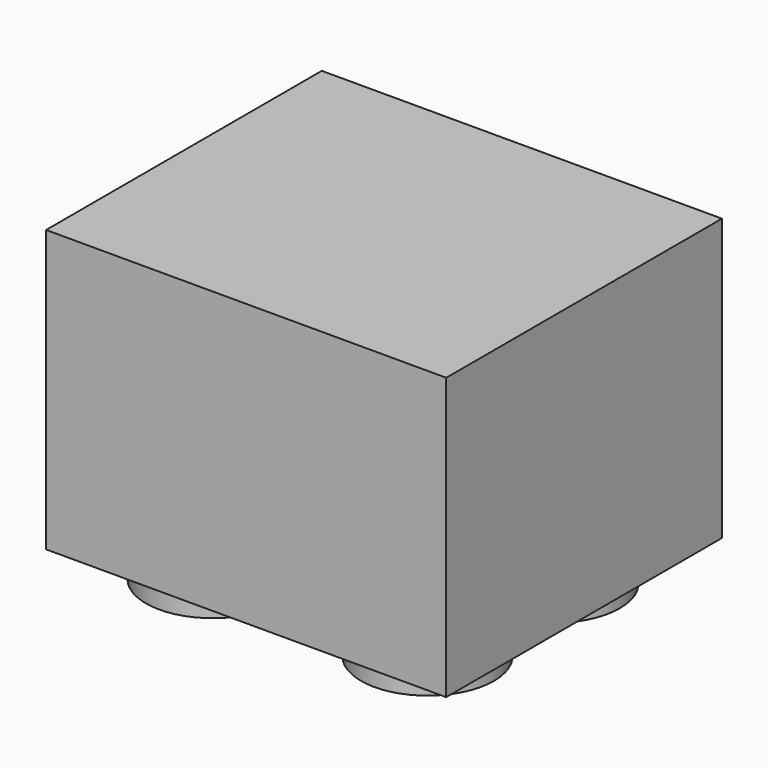
from build123d import *

# Parameters (mm, degrees)
F0_W     = 14.746196
F0_H     = 10.363549
F1_DEPTH = 12.7
F2_R     = 2.45
F3_DEPTH = 1.2


with BuildPart() as f1:
    # F0 (on Front) → F1 (new body)
    with BuildSketch(Plane.XZ):
        with Locations((-7.373098, 5.181774)):
            Rectangle(F0_W, F0_H)
    extrude(amount=F1_DEPTH)

    # F2 (on Top) → F3 (join)
    with BuildSketch(Plane.XY):
        with Locations((-3.45, -3.45)):
            Circle(F2_R)
        with Locations((-11.296196, -3.45)):
            Circle(F2_R)
        with Locations((-11.296196, -9.345689)):
            Circle(F2_R)
        with Locations((-3.45, -9.25)):
            Circle(F2_R)
    extrude(amount=-F3_DEPTH)


solid = f1.part
